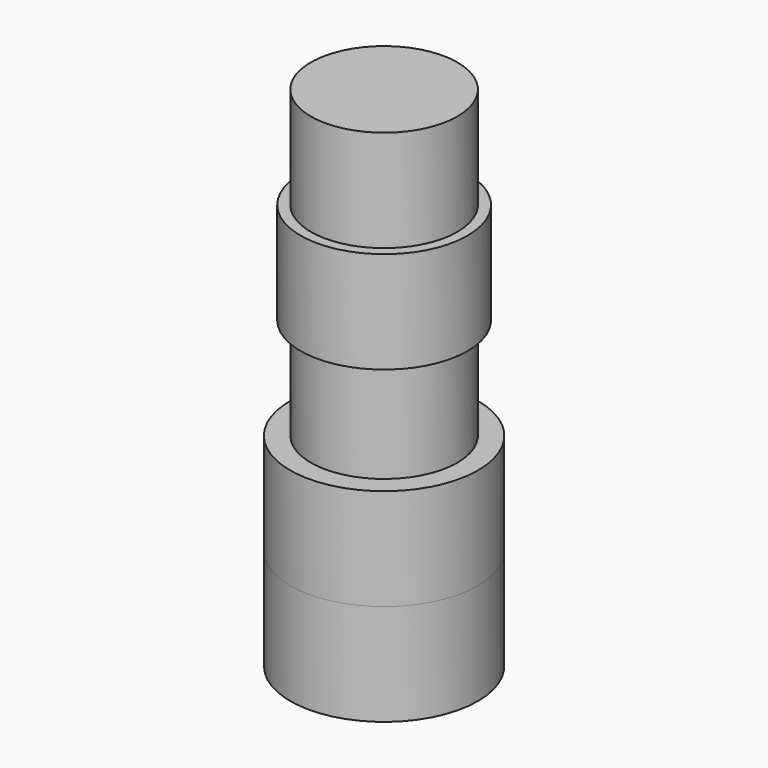
from build123d import *

# Parameters (mm, degrees)
F0_R     = 23.08
F1_DEPTH = 25
F2_R     = 23.115
F3_DEPTH = 25
F4_R     = 18.025
F5_DEPTH = 25
F6_R     = 20.545
F7_DEPTH = 25
F8_R     = 18.03
F9_DEPTH = 25


with BuildPart() as f1:
    # F0 (on Top) → F1 (new body)
    with BuildSketch(Plane.XY):
        Circle(F0_R)
    extrude(amount=F1_DEPTH)

    # F2 (on face) → F3 (join)
    with BuildSketch(Plane.XY.offset(25)):
        Circle(F2_R)
    extrude(amount=F3_DEPTH)

    # F4 (on face) → F5 (join)
    with BuildSketch(Plane.XY.offset(50)):
        Circle(F4_R)
    extrude(amount=F5_DEPTH)

    # F6 (on face) → F7 (join)
    with BuildSketch(Plane.XY.offset(75)):
        Circle(F6_R)
    extrude(amount=F7_DEPTH)

    # F8 (on face) → F9 (join)
    with BuildSketch(Plane.XY.offset(100)):
        Circle(F8_R)
    extrude(amount=F9_DEPTH)


solid = f1.part
